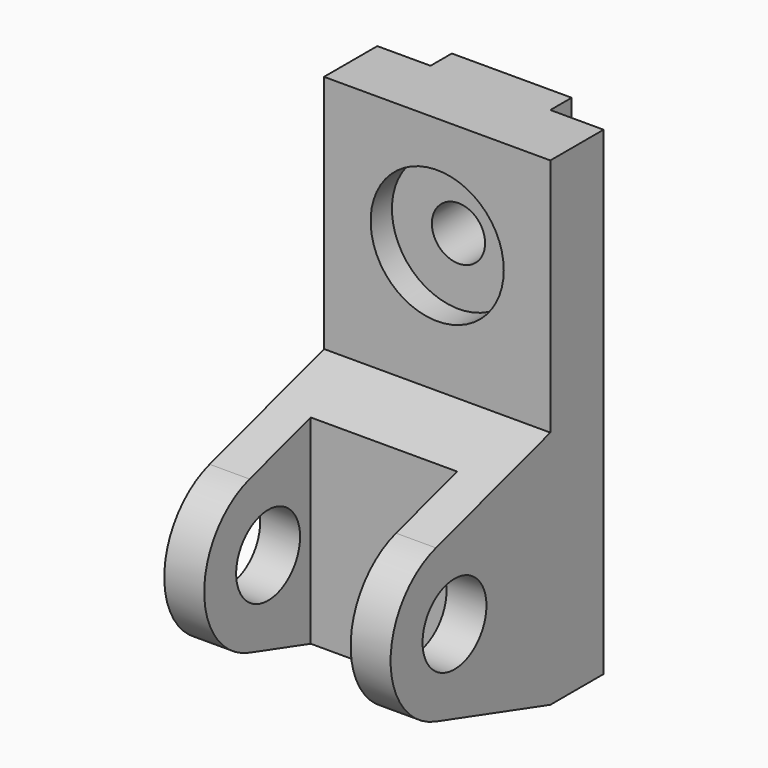
from build123d import *

# Parameters (mm, degrees)
SKETCH001_W     = 143.571686
SKETCH001_H     = 55
PAD001_DEPTH    = 60
SKETCH_R        = 15
PAD_DEPTH       = 42.5
SKETCH002_W     = 45
SKETCH002_H     = 180
PAD002_DEPTH    = 10
SKETCH003_R     = 25
POCKET_DEPTH    = 10
SKETCH004_R     = 10
POCKET001_DEPTH = 25.001


with BuildPart() as pad001:
    # Sketch001 → Pad001 (new body)
    with BuildSketch(Plane(origin=(0, -50, 0), x_dir=(0, 0, -1), z_dir=(0, -1, 0))):
        with Locations((2.390221, 0)):
            Rectangle(SKETCH001_W, SKETCH001_H)
    extrude(amount=PAD001_DEPTH)


with BuildPart() as pocket001:
    # Sketch → Pad (new body, symmetric)
    with BuildSketch(Plane.YZ):
        with BuildLine():
            Line((0, -45), (0, 135))
            Line((0, 135), (-25, 135))
            Line((-25, 135), (-25, 45))
            Line((-25, 45), (-78.708345, 28.708269))
            ThreePointArc((-78.708345, 28.708269), (-100, 2e-06), (-78.708348, -28.708268))
            Line((-78.708348, -28.708268), (-25, -45))
            Line((0, -45), (-25, -45))
        make_face()
        with Locations((-70, 0)):
            Circle(SKETCH_R, mode=Mode.SUBTRACT)
    extrude(amount=PAD_DEPTH, both=True)

    # Cut: cut Pad001
    add(pad001.part, mode=Mode.SUBTRACT)

    # Sketch002 → Pad002 (new body)
    with BuildSketch(Plane(origin=(0, 0, 0), x_dir=(-1, 0, 0), z_dir=(0, 1, 0))):
        with Locations((0, 45)):
            Rectangle(SKETCH002_W, SKETCH002_H)
    extrude(amount=PAD002_DEPTH)

    # Sketch003 → Pocket (cut)
    with BuildSketch(Plane.XZ.offset(25)):
        with Locations((0, 93)):
            Circle(SKETCH003_R)
    extrude(amount=-POCKET_DEPTH, mode=Mode.SUBTRACT)

    # Sketch004 → Pocket001 (cut, through all)
    with BuildSketch(Plane.XZ.offset(15)):
        with Locations((0, 93)):
            Circle(SKETCH004_R)
    extrude(amount=-POCKET001_DEPTH, mode=Mode.SUBTRACT)


solid = pocket001.part
